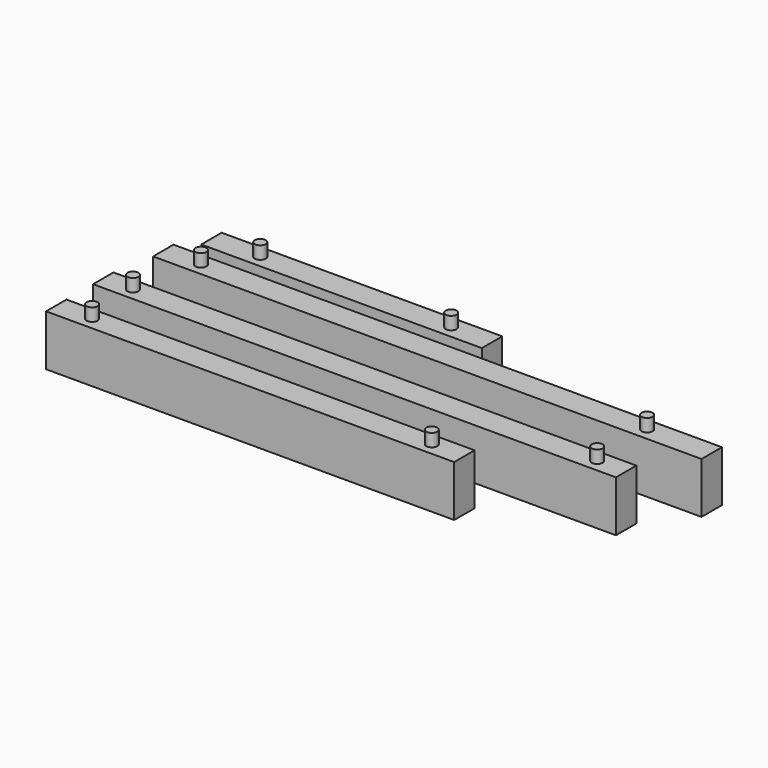
from build123d import *

# Parameters (mm, degrees)
F1_DEPTH  = 20
F2_DEPTH  = 20
F3_R      = 2.15
F4_DEPTH  = 5
F5_R      = 2.15
F6_DEPTH  = 5
F7_R      = 2.15
F8_DEPTH  = 5
F9_R      = 2.15
F10_DEPTH = 5


with BuildPart() as f1:
    # F0 (on Top) → F1 (new body)
    with BuildSketch(Plane.XY):
        Polygon((-42.29854, 59.668465), (-57.29854, 59.668465), (-57.29854, 49.668465), (-42.29854, 49.668465), (38.570829, 49.668465), (52.70146, 49.668465), (52.70146, 59.668465), (37.70146, 59.668465), align=None)
    extrude(amount=F1_DEPTH)

    # F0 (on Top) → F2 (join)
    with BuildSketch(Plane.XY):
        Polygon((-42.29854, 59.668465), (-57.29854, 59.668465), (-57.29854, 49.668465), (-42.29854, 49.668465), (38.570829, 49.668465), (52.70146, 49.668465), (52.70146, 59.668465), (37.70146, 59.668465), align=None)
        Polygon((-48.859455, 44.278236), (-63.859455, 44.278236), (-63.859455, 34.278236), (-48.859455, 34.278236), (136.140545, 34.278236), (151.140545, 34.278236), (151.140545, 44.278236), (136.140545, 44.278236), align=None)
        Polygon((-51.709455, 18.406053), (-66.709455, 18.406053), (-66.709455, 8.406053), (138.290545, 8.406053), (138.290545, 13.406053), (138.290545, 18.406053), (123.290545, 18.406053), align=None)
        Polygon((-51.709455, -4.620614), (-66.709455, -4.620614), (-66.709455, -14.620614), (93.290545, -14.620614), (93.290545, -9.620614), (93.290545, -4.620614), (78.290545, -4.620614), align=None)
    extrude(amount=F2_DEPTH)

    # F3 (on face) → F4 (join)
    with BuildSketch(Plane.XY.offset(20)):
        with Locations((-38.172364, 54.668465)):
            Circle(F3_R)
        with Locations((36.677286, 54.668465)):
            Circle(F3_R)
    extrude(amount=F4_DEPTH)

    # F5 (on face) → F6 (join)
    with BuildSketch(Plane.XY.offset(20)):
        with Locations((-49.130503, 39.278236)):
            Circle(F5_R)
        with Locations((125.828236, 39.278236)):
            Circle(F5_R)
    extrude(amount=F6_DEPTH)

    # F7 (on face) → F8 (join)
    with BuildSketch(Plane.XY.offset(20)):
        with Locations((-55.073898, 13.406053)):
            Circle(F7_R)
        with Locations((126.94262, 13.406053)):
            Circle(F7_R)
    extrude(amount=F8_DEPTH)

    # F9 (on face) → F10 (join)
    with BuildSketch(Plane.XY.offset(20)):
        with Locations((-52.659392, -9.620614)):
            Circle(F9_R)
        with Locations((80.509834, -9.620614)):
            Circle(F9_R)
    extrude(amount=F10_DEPTH)


solid = f1.part
